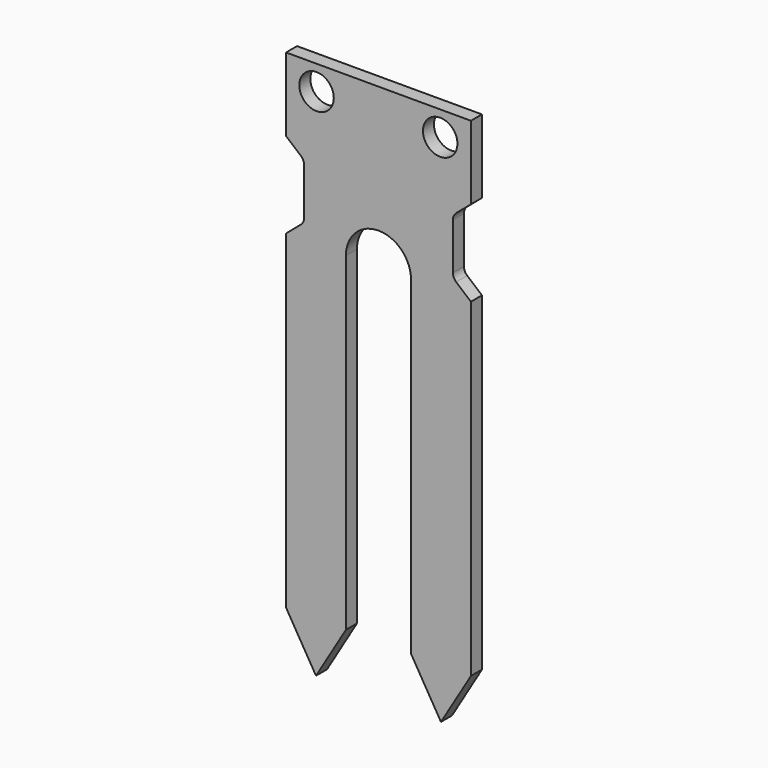
from build123d import *

# Parameters (mm, degrees)
F0_R     = 1.875
F1_DEPTH = 1.5
F2_R     = 1


with BuildPart() as f1:
    # F0 (on Front) → F1 (new body)
    with BuildSketch(Plane.XZ):
        with BuildLine():
            Line((10.055, 0), (-10.055, 0))
            Line((-10.055, 0), (-10.055, -8))
            Line((-10.055, -8), (-8.09664, -9.664249))
            Line((-8.09664, -9.664249), (-8.09664, -15.664249))
            Line((-8.09664, -15.664249), (-10.055, -17.328498))
            Line((-10.055, -17.328498), (-10.055, -53.168498))
            Line((-10.055, -53.168498), (-6.7975, -58.630942))
            Line((-6.7975, -58.630942), (-3.54, -53.168498))
            Line((-3.54, -53.168498), (-3.54, -17.328498))
            ThreePointArc((-3.54, -17.328498), (0, -13.788498), (3.54, -17.328498))
            Line((3.54, -17.328498), (3.54, -53.168498))
            Line((3.54, -53.168498), (6.7975, -58.630942))
            Line((6.7975, -58.630942), (10.055, -53.168498))
            Line((10.055, -53.168498), (10.055, -17.328498))
            Line((10.055, -17.328498), (8.09664, -15.664249))
            Line((8.09664, -15.664249), (8.09664, -9.664249))
            Line((8.09664, -9.664249), (10.055, -8))
            Line((10.055, -8), (10.055, 0))
        make_face()
        with Locations((-6.739115, -2.67007)):
            Circle(F0_R, mode=Mode.SUBTRACT)
        with Locations((6.710854, -2.67007)):
            Circle(F0_R, mode=Mode.SUBTRACT)
    extrude(amount=F1_DEPTH)

    # F2
    f2_edges = [f1.edges().sort_by_distance(p)[0] for p in [
        (-8.09664, -0.75, -9.664249),
        (-8.09664, -0.75, -15.664249),
        (8.09664, -0.75, -9.664249),
        (8.09664, -0.75, -15.664249),
    ]]
    fillet(f2_edges, radius=F2_R)


solid = f1.part
